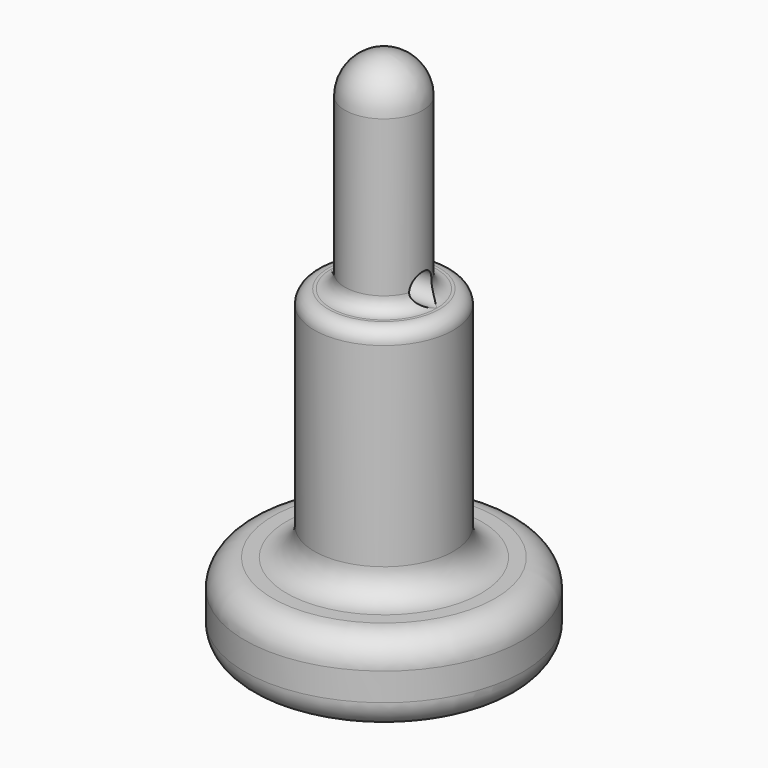
from build123d import *

# Parameters (mm, degrees)
F0_R      = 5
F1_DEPTH  = 3
F2_R      = 2.5
F3_DEPTH  = 8.5
F4_R      = 1.4
F5_DEPTH  = 7.5
F6_R      = 1.4
F7_R      = 1
F8_R      = 0.5
F9_R      = 0.5
F10_DEPTH = 2.5


with BuildPart() as f1:
    # F0 (on Top) → F1 (new body)
    with BuildSketch(Plane.XY):
        Circle(F0_R)
    extrude(amount=F1_DEPTH)

    # F2 (on face) → F3 (join)
    with BuildSketch(Plane.XY.offset(3)):
        Circle(F2_R)
    extrude(amount=F3_DEPTH)

    # F4 (on face) → F5 (join)
    with BuildSketch(Plane.XY.offset(11.5)):
        Circle(F4_R)
    extrude(amount=F5_DEPTH)

    # F6
    f6_edges = [f1.edges().sort_by_distance(p)[0] for p in [
        (-1.4, 0, 19),
    ]]
    fillet(f6_edges, radius=F6_R)

    # F7
    f7_edges = [f1.edges().sort_by_distance(p)[0] for p in [
        (-2.5, 0, 3),
        (-5, 0, 0),
        (-5, 0, 3),
    ]]
    fillet(f7_edges, radius=F7_R)

    # F8
    f8_edges = [f1.edges().sort_by_distance(p)[0] for p in [
        (-1.4, 0, 11.5),
        (-2.5, 0, 11.5),
    ]]
    fillet(f8_edges, radius=F8_R)

    # F9 (on Right) → F10 (cut, symmetric)
    with BuildSketch(Plane.YZ):
        with Locations((0, 12)):
            Circle(F9_R)
    extrude(amount=F10_DEPTH, both=True, mode=Mode.SUBTRACT)


solid = f1.part
